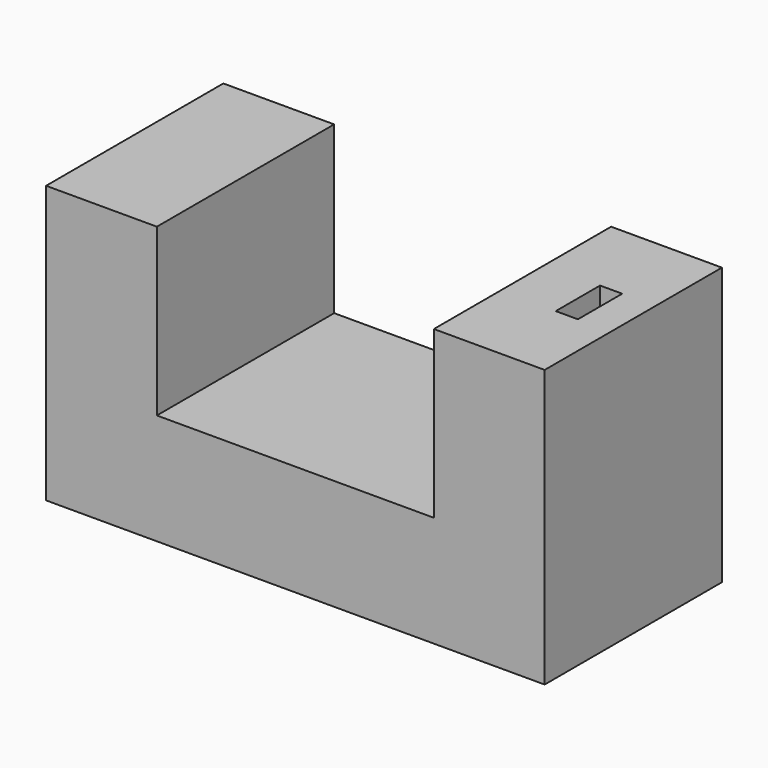
from build123d import *

# Parameters (mm, degrees)
F0_W     = 25
F0_H     = 20
F0_W_2   = 10
F1_DEPTH = 10
F2_DEPTH = 25
F4_D     = 5.2
F4_DEPTH = 1.2
F4_TIP   = 1.5622376095
F3_W     = 2
F3_H     = 2.5
F5_DEPTH = 36.07


with BuildPart() as f1:
    # F0 (on Top) → F1 (new body)
    with BuildSketch(Plane.XY):
        Rectangle(F0_W, F0_H)
        with Locations((-17.5, 0)):
            Rectangle(F0_W_2, F0_H)
        with Locations((17.5, 0)):
            Rectangle(F0_W_2, F0_H)
    extrude(amount=F1_DEPTH)

    # F0 (on Top) → F2 (join)
    with BuildSketch(Plane.XY):
        with Locations((-17.5, 0)):
            Rectangle(F0_W_2, F0_H)
        with Locations((17.5, 0)):
            Rectangle(F0_W_2, F0_H)
    extrude(amount=F2_DEPTH)

    # F4
    with Locations(Plane(origin=(0, 0, 0), x_dir=(1, 0, 0), z_dir=(0, 0, -1))):
        with Locations((0, 0)):
            Hole(F4_D / 2, depth=F4_DEPTH)
            with Locations((0, 0, -(F4_DEPTH + F4_TIP / 2))):  # 118° drill point
                Cone(0, F4_D / 2, F4_TIP, mode=Mode.SUBTRACT)

    # F3 (on face) → F5 (cut)
    with BuildSketch(Plane(origin=(0, 0, 0), x_dir=(1, 0, 0), z_dir=(0, 0, -1))):
        with Locations((18.5, 1.25)):
            Rectangle(F3_W, F3_H)
        with Locations((18.5, -1.25)):
            Rectangle(F3_W, F3_H)
    extrude(amount=-F5_DEPTH, mode=Mode.SUBTRACT)


solid = f1.part
